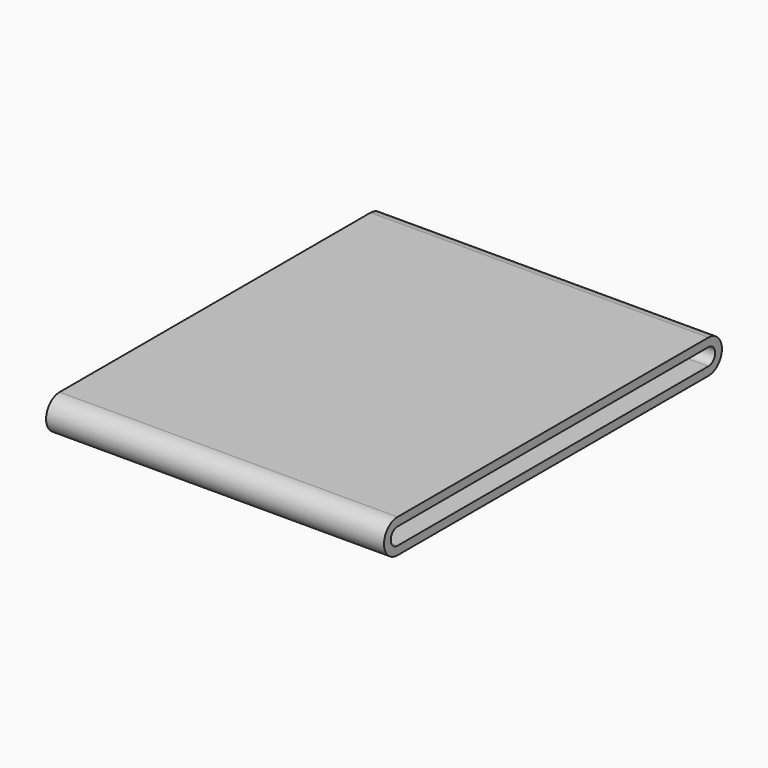
from build123d import *

# Parameters (mm, degrees)
PAD_DEPTH = 20


with BuildPart() as part:
    # Sketch → Pad (new body)
    with BuildSketch(Plane.YZ):
        with BuildLine():
            Line((-23, -1), (0, -1))
            ThreePointArc((0, -1), (1, 0), (0, 1))
            Line((-23, 1), (0, 1))
            ThreePointArc((-23, 1), (-24, 0), (-23, -1))
        make_face()
        with BuildLine():
            Line((-23, -0.5), (0, -0.5))
            ThreePointArc((0, -0.5), (0.5, 0), (0, 0.5))
            Line((-23, 0.5), (0, 0.5))
            ThreePointArc((-23, 0.5), (-23.5, 0), (-23, -0.5))
        make_face(mode=Mode.SUBTRACT)
    extrude(amount=PAD_DEPTH)


solid = part.part
